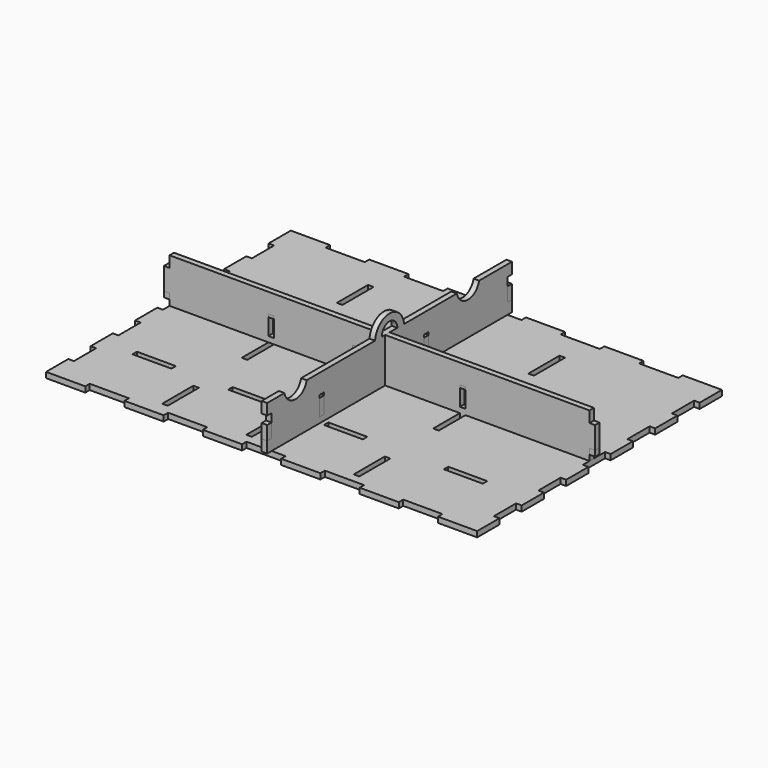
from build123d import *

# Parameters (mm, degrees)
F0_W     = 4
F0_H     = 28
F0_W_2   = 28
F0_H_2   = 4
F1_DEPTH = 4
F2_W     = 7
F2_H     = 10
F3_DEPTH = 4
F5_DEPTH = 4
F6_W     = 4
F6_H     = 14
F7_DEPTH = 4
F8_W     = 4
F8_H     = 14
F9_DEPTH = 4


with BuildPart() as f1:
    # F0 (on Top) → F1 (new body)
    with BuildSketch(Plane.XY):
        Polygon((-126.8, 110), (-155, 110), (-155, 90), (-151, 90), (-151, 70), (-155, 70), (-155, 50), (-151, 50), (-151, 30), (-155, 30), (-155, 10), (-151, 10), (-151, -10), (-155, -10), (-155, -30), (-151, -30), (-151, -50), (-155, -50), (-155, -70), (-151, -70), (-151, -90), (-155, -90), (-155, -110), (-126.8, -110), (-126.8, -106), (-98.64, -106), (-98.64, -110), (-70.44, -110), (-70.44, -106), (-42.28, -106), (-42.28, -110), (-14.08, -110), (-14.08, -106), (14.08, -106), (14.08, -110), (42.28, -110), (42.28, -106), (70.44, -106), (70.44, -110), (98.64, -110), (98.64, -106), (126.8, -106), (126.8, -110), (155, -110), (155, -90), (151, -90), (151, -70), (155, -70), (155, -50), (151, -50), (151, -30), (155, -30), (155, -10), (151, -10), (151, 10), (155, 10), (155, 30), (151, 30), (151, 50), (155, 50), (155, 70), (151, 70), (151, 90), (155, 90), (155, 110), (126.8, 110), (126.8, 106), (98.64, 106), (98.64, 110), (70.44, 110), (70.44, 106), (42.28, 106), (42.28, 110), (14.08, 110), (14.08, 106), (-14.08, 106), (-14.08, 110), (-42.28, 110), (-42.28, 106), (-70.44, 106), (-70.44, 110), (-98.64, 110), (-98.64, 106), (-126.8, 106), align=None)
        with Locations((-77.9, -85.5)):
            Rectangle(F0_W, F0_H, mode=Mode.SUBTRACT)
        with Locations((-116.45, -61)):
            Rectangle(F0_W_2, F0_H_2, mode=Mode.SUBTRACT)
        with Locations((-17.4, -85.5)):
            Rectangle(F0_W, F0_H, mode=Mode.SUBTRACT)
        with Locations((-47.65, -61)):
            Rectangle(F0_W_2, F0_H_2, mode=Mode.SUBTRACT)
        with Locations((-77.9, -14)):
            Rectangle(F0_W, F0_H, mode=Mode.SUBTRACT)
        with Locations((-17.4, -14)):
            Rectangle(F0_W, F0_H, mode=Mode.SUBTRACT)
        with Locations((59.8, -85.5)):
            Rectangle(F0_W, F0_H, mode=Mode.SUBTRACT)
        with Locations((21.2, -61)):
            Rectangle(F0_W_2, F0_H_2, mode=Mode.SUBTRACT)
        with Locations((107.4, -61)):
            Rectangle(F0_W_2, F0_H_2, mode=Mode.SUBTRACT)
        with Locations((59.8, -14)):
            Rectangle(F0_W, F0_H, mode=Mode.SUBTRACT)
        with Locations((-116.45, 33)):
            Rectangle(F0_W_2, F0_H_2, mode=Mode.SUBTRACT)
        with Locations((-47.65, 33)):
            Rectangle(F0_W_2, F0_H_2, mode=Mode.SUBTRACT)
        with Locations((-77.9, 71.5)):
            Rectangle(F0_W, F0_H, mode=Mode.SUBTRACT)
        with Locations((-17.4, 71.5)):
            Rectangle(F0_W, F0_H, mode=Mode.SUBTRACT)
        with Locations((21.2, 33)):
            Rectangle(F0_W_2, F0_H_2, mode=Mode.SUBTRACT)
        with Locations((107.4, 33)):
            Rectangle(F0_W_2, F0_H_2, mode=Mode.SUBTRACT)
        with Locations((59.8, 71.5)):
            Rectangle(F0_W, F0_H, mode=Mode.SUBTRACT)
    extrude(amount=F1_DEPTH)


with BuildPart() as f3:
    # F2 (on Front) → F3 (new body)
    with BuildSketch(Plane.XZ):
        Polygon((-144, 26), (-151, 26), (-151, 22), (-155, 22), (-155, 8), (-151, 8), (-151, 4), (-130.45, 4), (-130.45, 0), (-102.45, 0), (-102.45, 4), (-79.9, 4), (-79.9, 20), (-75.9, 20), (-75.9, 4), (-61.65, 4), (-61.65, 0), (-33.65, 0), (-33.65, 4), (-19.4, 4), (-19.4, 20), (-15.4, 20), (-15.4, 4), (7.2, 4), (7.2, 0), (35.2, 0), (35.2, 4), (57.8, 4), (57.8, 20), (61.8, 20), (61.8, 4), (93.4, 4), (93.4, 0), (121.4, 0), (121.4, 4), (151, 4), (151, 8), (155, 8), (155, 22), (151, 22), (151, 26), align=None)
        with Locations((-147.5, 31)):
            Rectangle(F2_W, F2_H)
    extrude(amount=F3_DEPTH)


with BuildPart() as f5:
    # F4 (on Right) → F5 (new body)
    with BuildSketch(Plane.YZ):
        Polygon((-106, 4), (-99.5, 4), (-99.5, 0), (-71.5, 0), (-71.5, 4), (-28, 4), (-28, 0), (0, 0), (0, 4), (57.5, 4), (57.5, 0), (85.5, 0), (85.5, 4), (106, 4), (106, 8), (110, 8), (110, 22), (106, 22), (106, 26), (35, 26), (35, 20), (31, 20), (31, 26), (-59, 26), (-59, 20), (-63, 20), (-63, 26), (-106, 26), (-106, 22), (-110, 22), (-110, 8), (-106, 8), align=None)
    extrude(amount=F5_DEPTH)


with BuildPart() as f7:
    # F6 (on Front) → F7 (new body)
    with BuildSketch(Plane.XZ):
        Polygon((151, 36), (-151, 36), (-151, 28), (-155, 28), (-155, 12), (-151, 12), (-151, 4), (-126.8, 4), (-126.8, 0), (-98.64, 0), (-98.64, 4), (-70.44, 4), (-70.44, 0), (-42.28, 0), (-42.28, 4), (-14.08, 4), (-14.08, 0), (14.08, 0), (14.08, 4), (42.28, 4), (42.28, 0), (70.44, 0), (70.44, 4), (98.64, 4), (98.64, 0), (126.8, 0), (126.8, 4), (151, 4), (151, 12), (155, 12), (155, 28), (151, 28), align=None)
        with Locations((-77.9, 15)):
            Rectangle(F6_W, F6_H, mode=Mode.SUBTRACT)
        with Locations((-17.4, 15)):
            Rectangle(F6_W, F6_H, mode=Mode.SUBTRACT)
        with Locations((59.8, 15)):
            Rectangle(F6_W, F6_H, mode=Mode.SUBTRACT)
    extrude(amount=F7_DEPTH)


with BuildPart() as f9:
    # F8 (on Right) → F9 (new body)
    with BuildSketch(Plane.YZ):
        with BuildLine():
            Line((-106, 12), (-110, 12))
            Line((-110, 12), (-110, 4))
            Line((-110, 4), (-90, 4))
            Line((-90, 4), (-90, 0))
            Line((-90, 0), (-70, 0))
            Line((-70, 0), (-70, 4))
            Line((-70, 4), (-50, 4))
            Line((-50, 4), (-50, 0))
            Line((-50, 0), (-30, 0))
            Line((-30, 0), (-30, 4))
            Line((-30, 4), (-10, 4))
            Line((-10, 4), (-10, 0))
            Line((-10, 0), (10, 0))
            Line((10, 0), (10, 4))
            Line((10, 4), (30, 4))
            Line((30, 4), (30, 0))
            Line((30, 0), (50, 0))
            Line((50, 0), (50, 4))
            Line((50, 4), (70, 4))
            Line((70, 4), (70, 0))
            Line((70, 0), (90, 0))
            Line((90, 0), (90, 4))
            Line((90, 4), (110, 4))
            Line((110, 4), (110, 12))
            Line((110, 12), (106, 12))
            Line((106, 12), (106, 28))
            Line((106, 28), (110, 28))
            Line((110, 28), (110, 36))
            Line((110, 36), (80.5, 36))
            ThreePointArc((80.5, 36), (70.5, 28), (60.5, 36))
            Line((60.5, 36), (13, 36))
            ThreePointArc((13, 36), (0, 48), (-13, 36))
            Line((-13, 36), (-74.5, 36))
            ThreePointArc((-74.5, 36), (-84.5, 28), (-94.5, 36))
            Line((-94.5, 36), (-110, 36))
            Line((-110, 36), (-110, 28))
            Line((-110, 28), (-106, 28))
            Line((-106, 28), (-106, 12))
        make_face()
        with Locations((-61, 15)):
            Rectangle(F8_W, F8_H, mode=Mode.SUBTRACT)
        with Locations((33, 15)):
            Rectangle(F8_W, F8_H, mode=Mode.SUBTRACT)
        with BuildLine():
            Line((7, 36), (-7, 36))
            ThreePointArc((-7, 36), (0, 43), (7, 36))
        make_face(mode=Mode.SUBTRACT)
    extrude(amount=F9_DEPTH)


solid = Compound([f1.part, f3.part, f5.part, f7.part, f9.part])
